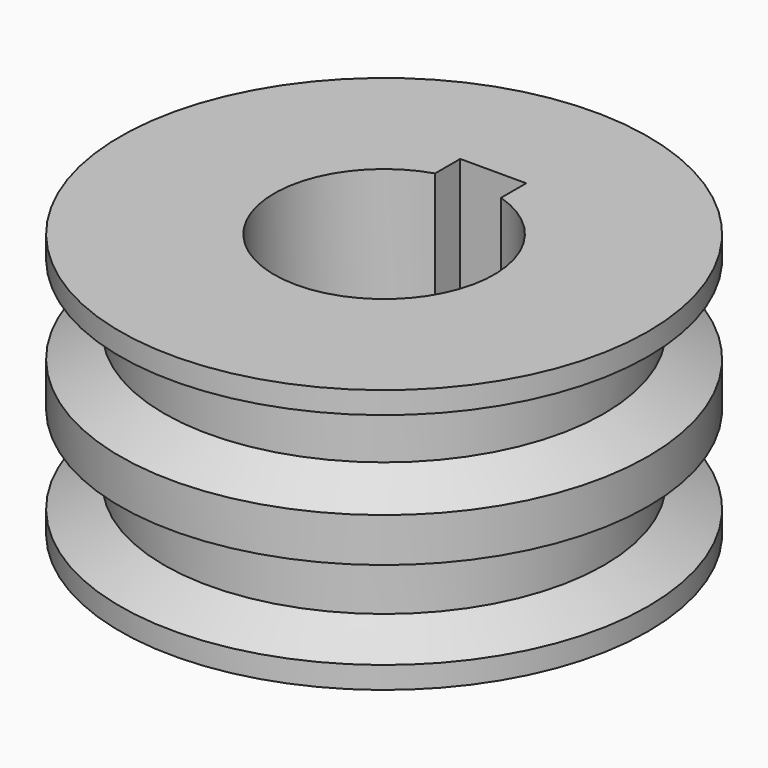
from build123d import *

# Parameters (mm, degrees)
F3_DEPTH = 60.001


with BuildPart() as f1:
    # F0 (on Front) → F1 (revolve)
    with BuildSketch(Plane.XZ):
        Polygon((40, 30), (25, 30), (25, -30), (40, -30), (50, -30), (60, -30), (60, -25), (50, -20), (50, -10), (60, -5), (60, 5), (50, 10.338278207), (50, 20), (60, 25), (60, 30), (50, 30), align=None)
    revolve(axis=Axis((0, 0, 0), (0, 0, -1)))

    # F2 (on face) → F3 (cut, through all)
    with BuildSketch(Plane.XY.offset(30)):
        with BuildLine():
            Line((7.5, 31), (-7.5, 31))
            Line((-7.5, 31), (-7.5, 23.8484800354))
            ThreePointArc((-7.5, 23.8484800354), (0, 25), (7.5, 23.8484800354))
            Line((7.5, 23.8484800354), (7.5, 31))
        make_face()
    extrude(amount=-F3_DEPTH, mode=Mode.SUBTRACT)


solid = f1.part
